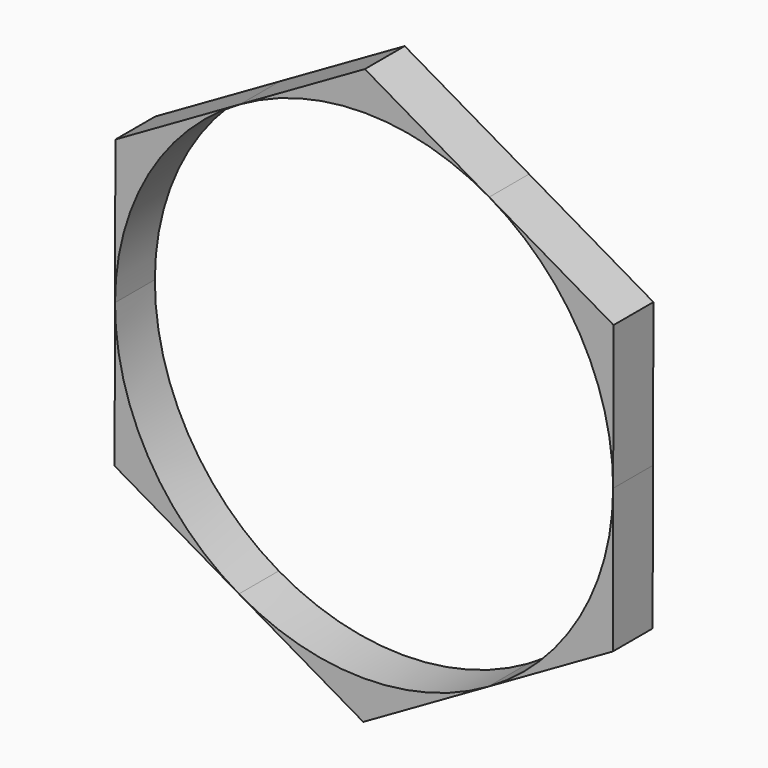
from build123d import *

# Parameters (mm, degrees)
F1_DEPTH = 12.7
F3_DEPTH = 12.701


with BuildPart() as f1:
    # F0 (on Front) → F1 (new body)
    with BuildSketch(Plane.XZ):
        with BuildLine():
            ThreePointArc((63.4997565514, -0.1758349042), (63.4999391378, -0.0879175364), (63.5, 0))
            ThreePointArc((63.5, 0), (55.0365195574, 31.6738301285), (31.9021570076, 54.9044841362))
            ThreePointArc((31.9021570076, 54.9044841362), (0.1758346974, 63.499756552), (-31.5976023825, 55.0803188415))
            ThreePointArc((-31.5976023825, 55.0803188415), (-54.9044849704, 31.9021555719), (-63.4997565476, 0.1758362923))
            ThreePointArc((-63.4997565476, 0.1758362923), (-55.0803206031, -31.5975993117), (-31.9021575002, -54.90448385))
            ThreePointArc((-31.9021575002, -54.90448385), (-0.1758348007, -63.4997565517), (31.5976026975, -55.0803186608))
            ThreePointArc((31.5976026975, -55.0803186608), (54.9044854103, -31.9021548148), (63.4997565514, -0.1758349042))
        make_face()
        with BuildLine():
            ThreePointArc((31.9021570076, 54.9044841362), (55.0365195574, 31.6738301285), (63.5, 0))
            ThreePointArc((63.5, 0), (63.4999391378, -0.0879175364), (63.4997565514, -0.1758349042))
            Line((63.4997565514, -0.1758349042), (63.6012747272, 36.4857669017))
            Line((63.6012747272, 36.4857669017), (31.9021570076, 54.9044841362))
        make_face()
        with BuildLine():
            ThreePointArc((-31.5976023825, 55.0803188415), (0.1758346974, 63.499756552), (31.9021570076, 54.9044841362))
            Line((31.9021570076, 54.9044841362), (0.2030363502, 73.3232030777))
            Line((0.2030363502, 73.3232030777), (-31.5976023825, 55.0803188415))
        make_face()
        with BuildLine():
            Line((63.3982383771, -36.837436176), (63.4997565514, -0.1758349042))
            ThreePointArc((63.4997565514, -0.1758349042), (54.9044854103, -31.9021548148), (31.5976026975, -55.0803186608))
            Line((31.5976026975, -55.0803186608), (63.3982383771, -36.837436176))
        make_face()
        with BuildLine():
            ThreePointArc((-63.4997565476, 0.1758362923), (-54.9044849704, 31.9021555719), (-31.5976023825, 55.0803188415))
            Line((-31.5976023825, 55.0803188415), (-63.3982383771, 36.837436176))
            Line((-63.3982383771, 36.837436176), (-63.4997565476, 0.1758362923))
        make_face()
        with BuildLine():
            Line((-0.2030363502, -73.3232030777), (31.5976026975, -55.0803186608))
            ThreePointArc((31.5976026975, -55.0803186608), (-0.1758348007, -63.4997565517), (-31.9021575002, -54.90448385))
            Line((-31.9021575002, -54.90448385), (-0.2030363502, -73.3232030777))
        make_face()
        with BuildLine():
            ThreePointArc((-31.9021575002, -54.90448385), (-55.0803206031, -31.5975993117), (-63.4997565476, 0.1758362923))
            Line((-63.4997565476, 0.1758362923), (-63.6012747272, -36.4857669017))
            Line((-63.6012747272, -36.4857669017), (-31.9021575002, -54.90448385))
        make_face()
    extrude(amount=F1_DEPTH)

    # F2 (on face) → F3 (cut, through all)
    with BuildSketch(Plane.XZ.offset(12.7)):
        with BuildLine():
            ThreePointArc((63.4997565503, -0.175835282), (63.4999391376, -0.0879177253), (63.5, 0))
            ThreePointArc((63.5, 0), (55.0365195007, 31.673830227), (31.902156811, 54.9044842505))
            ThreePointArc((31.902156811, 54.9044842505), (0.1758341853, 63.4997565534), (-31.5976030736, 55.080318445))
            ThreePointArc((-31.5976030736, 55.080318445), (-54.9044851385, 31.9021552826), (-63.4997565472, 0.1758364198))
            ThreePointArc((-63.4997565472, 0.1758364198), (-55.0803206077, -31.5975993036), (-31.9021574061, -54.9044839046))
            ThreePointArc((-31.9021574061, -54.9044839046), (-0.1758347458, -63.4997565518), (31.5976026984, -55.0803186602))
            ThreePointArc((31.5976026984, -55.0803186602), (54.9044853157, -31.9021549777), (63.4997565503, -0.175835282))
        make_face()
    extrude(amount=-F3_DEPTH, mode=Mode.SUBTRACT)


solid = f1.part
